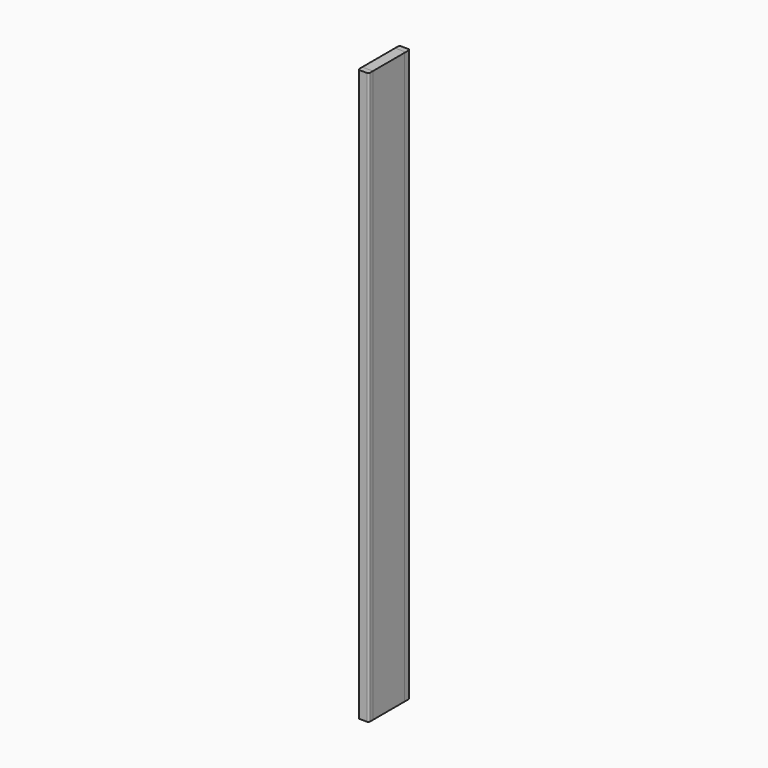
from build123d import *

# Parameters (mm, degrees)
F1_DEPTH = 2032
F3_DEPTH = 2032


with BuildPart() as f1:
    # F0 (on Top) → F1 (new body)
    with BuildSketch(Plane.XY):
        with BuildLine():
            Line((12.7, 92.075), (-12.7, 92.075))
            ThreePointArc((-12.7, 92.075), (-17.190128, 90.215128), (-19.05, 85.725))
            Line((-19.05, 85.725), (-19.05, -85.725))
            ThreePointArc((-19.05, -85.725), (-17.190128, -90.215128), (-12.7, -92.075))
            Line((-12.7, -92.075), (12.7, -92.075))
            ThreePointArc((12.7, -92.075), (17.190128, -90.215128), (19.05, -85.725))
            Line((19.05, -85.725), (19.05, 85.725))
            ThreePointArc((19.05, 85.725), (17.190128, 90.215128), (12.7, 92.075))
        make_face()
    extrude(amount=F1_DEPTH)


with BuildPart() as f3:
    # F2 (on Top) → F3 (new body)
    with BuildSketch(Plane.XY):
        with BuildLine():
            Line((12.7, 73.025), (-12.7, 73.025))
            ThreePointArc((-12.7, 73.025), (-17.190128, 71.165128), (-19.05, 66.675))
            Line((-19.05, 66.675), (-19.05, -73.025))
            Line((-19.05, -73.025), (19.05, -73.025))
            Line((19.05, -73.025), (19.05, 66.675))
            ThreePointArc((19.05, 66.675), (17.190128, 71.165128), (12.7, 73.025))
        make_face()
    extrude(amount=F3_DEPTH)


solid = Compound([f1.part, f3.part])
